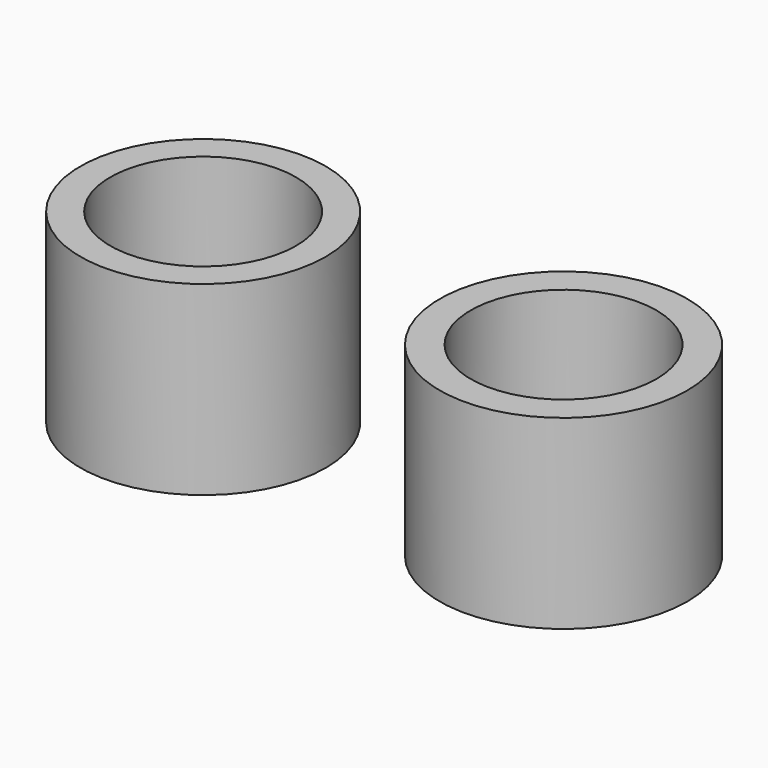
from build123d import *

# Parameters (mm, degrees)
F0_R     = 12.7
F0_R_2   = 9.525
F0_R_3   = 12.570583
F1_DEPTH = 19.05


with BuildPart() as f1:
    # F0 (on Top) → F1 (new body)
    with BuildSketch(Plane.XY):
        with Locations((25.287937, 6.300088)):
            Circle(F0_R)
        with Locations((25.287937, 6.300088)):
            Circle(F0_R_2, mode=Mode.SUBTRACT)
        with Locations((-11.656331, 6.300088)):
            Circle(F0_R_3)
        with Locations((-11.656331, 6.300088)):
            Circle(F0_R_2, mode=Mode.SUBTRACT)
    extrude(amount=F1_DEPTH)


solid = f1.part
